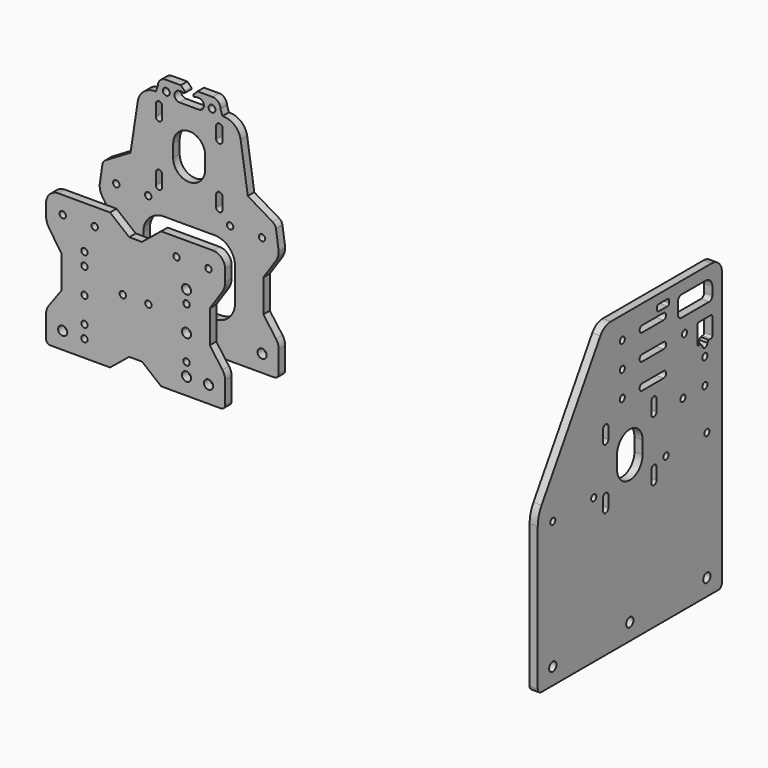
from build123d import *

# Parameters (mm, degrees)
F1_DEPTH  = 6.35
F2_R      = 3.5685
F2_R_2    = 2.5
F3_DEPTH  = 6.351
F5_DEPTH  = 6.351
F6_R      = 2.5
F7_DEPTH  = 6.351
F9_DEPTH  = 6.351
F10_R     = 2.5
F11_DEPTH = 6.351
F13_DEPTH = 6.351
F16_DEPTH = 6.35
F17_R     = 2.5
F18_DEPTH = 96.351
F19_R     = 2.5
F19_R_2   = 3.5685
F20_DEPTH = 96.351
F21_R     = 3.5685
F21_R_2   = 2.5
F22_DEPTH = 96.351
F23_R     = 9.6
F24_R     = 3.36
F25_R     = 14
F26_R     = 11
F29_DEPTH = 6.35
F30_R     = 2.5
F30_R_2   = 3.5685
F31_DEPTH = 44.001
F32_R     = 13.7
F33_R     = 5.5
F35_DEPTH = 44.001
F36_R     = 2.7
F37_DEPTH = 44.001
F39_DEPTH = 44.001


with BuildPart() as f1:
    # F0 (on Right) → F1 (new body)
    with BuildSketch(Plane.YZ):
        with BuildLine():
            ThreePointArc((-18.5517731611, 113.75), (-24.4005348578, 112.2281671401), (-28.7658235978, 108.048664436))
            Line((-28.7658235978, 108.048664436), (-86.2792717431, 14.7836133896))
            ThreePointArc((-86.2792717431, 14.7836133896), (-89.0518377009, 8.4811541103), (-90, 1.6613958147))
            Line((-90, 1.6613958147), (-90, -110.25))
            ThreePointArc((-90, -110.25), (-88.9748737342, -112.7248737342), (-86.5, -113.75))
            Line((-86.5, -113.75), (86.5, -113.75))
            ThreePointArc((86.5, -113.75), (88.9748737342, -112.7248737342), (90, -110.25))
            Line((90, -110.25), (90, 103.75))
            ThreePointArc((90, 103.75), (87.0710678119, 110.8210678119), (80, 113.75))
            Line((80, 113.75), (-18.5517731611, 113.75))
        make_face()
    extrude(amount=F1_DEPTH)

    # F2 (on face) → F3 (cut, through all)
    with BuildSketch(Plane.YZ.offset(6.35)):
        with Locations((-75.3, -100.75)):
            Circle(F2_R)
        with Locations((75.3, -100.75)):
            Circle(F2_R)
        with Locations((0, -100.75)):
            Circle(F2_R)
        with Locations((-75.3, -0.75)):
            Circle(F2_R_2)
        with Locations((-35.3, -0.75)):
            Circle(F2_R_2)
        with Locations((35.3, -0.75)):
            Circle(F2_R_2)
        with Locations((75.3, -0.75)):
            Circle(F2_R_2)
    extrude(amount=-F3_DEPTH, mode=Mode.SUBTRACT)

    # F4 (on face) → F5 (cut, through all)
    with BuildSketch(Plane.YZ.offset(6.35)):
        with BuildLine():
            Line((-12.5, 19.55), (-12.5, 9.55))
            ThreePointArc((-12.5, 9.55), (0, -2.95), (12.5, 9.55))
            Line((12.5, 9.55), (12.5, 19.55))
            ThreePointArc((12.5, 19.55), (0, 32.05), (-12.5, 19.55))
        make_face()
        with BuildLine():
            Line((-21.02, 33.62), (-21.02, 42.62))
            ThreePointArc((-21.02, 42.62), (-23.57, 45.17), (-26.12, 42.62))
            Line((-26.12, 42.62), (-26.12, 33.62))
            ThreePointArc((-26.12, 33.62), (-23.57, 31.07), (-21.02, 33.62))
        make_face()
        with BuildLine():
            ThreePointArc((21.02, 33.62), (23.57, 31.07), (26.12, 33.62))
            Line((26.12, 33.62), (26.12, 42.62))
            ThreePointArc((26.12, 42.62), (23.57, 45.17), (21.02, 42.62))
            Line((21.02, 42.62), (21.02, 33.62))
        make_face()
        with BuildLine():
            Line((26.12, -13.52), (26.12, -4.52))
            ThreePointArc((26.12, -4.52), (23.57, -1.97), (21.02, -4.52))
            Line((21.02, -4.52), (21.02, -13.52))
            ThreePointArc((21.02, -13.52), (23.57, -16.07), (26.12, -13.52))
        make_face()
        with BuildLine():
            ThreePointArc((-21.02, -4.52), (-23.57, -1.97), (-26.12, -4.52))
            Line((-26.12, -4.52), (-26.12, -13.52))
            ThreePointArc((-26.12, -13.52), (-23.57, -16.07), (-21.02, -13.52))
            Line((-21.02, -13.52), (-21.02, -4.52))
        make_face()
    extrude(amount=-F5_DEPTH, mode=Mode.SUBTRACT)

    # F6 (on face) → F7 (cut, through all)
    with BuildSketch(Plane.YZ.offset(6.35)):
        with Locations((-7.35, 96.25)):
            Circle(F6_R)
        with BuildLine():
            ThreePointArc((12, 98.75), (9.5, 96.25), (12, 93.75))
            Line((12, 93.75), (33, 93.75))
            ThreePointArc((33, 93.75), (35.5, 96.25), (33, 98.75))
            Line((33, 98.75), (12, 98.75))
        make_face()
        with Locations((-7.35, 76.25)):
            Circle(F6_R)
        with BuildLine():
            ThreePointArc((12, 78.75), (9.5, 76.25), (12, 73.75))
            Line((12, 73.75), (33, 73.75))
            ThreePointArc((33, 73.75), (35.5, 76.25), (33, 78.75))
            Line((33, 78.75), (12, 78.75))
        make_face()
        with Locations((-7.35, 56.25)):
            Circle(F6_R)
        with BuildLine():
            ThreePointArc((12, 58.75), (9.5, 56.25), (12, 53.75))
            Line((12, 53.75), (33, 53.75))
            ThreePointArc((33, 53.75), (35.5, 56.25), (33, 58.75))
            Line((33, 58.75), (12, 58.75))
        make_face()
        with Locations((53.35, 76.25)):
            Circle(F6_R)
    extrude(amount=-F7_DEPTH, mode=Mode.SUBTRACT)

    # F8 (on face) → F9 (cut, through all)
    with BuildSketch(Plane.YZ.offset(6.35)):
        with BuildLine():
            Line((36.9, 106.75), (28.1, 106.75))
            ThreePointArc((28.1, 106.75), (26.9686291501, 106.2813708499), (26.5, 105.15))
            Line((26.5, 105.15), (26.5, 103.35))
            ThreePointArc((26.5, 103.35), (26.9686291501, 102.2186291501), (28.1, 101.75))
            Line((28.1, 101.75), (36.9, 101.75))
            ThreePointArc((36.9, 101.75), (38.0313708499, 102.2186291501), (38.5, 103.35))
            Line((38.5, 103.35), (38.5, 105.15))
            ThreePointArc((38.5, 105.15), (38.0313708499, 106.2813708499), (36.9, 106.75))
        make_face()
    extrude(amount=-F9_DEPTH, mode=Mode.SUBTRACT)

    # F10 (on face) → F11 (cut, through all)
    with BuildSketch(Plane.YZ.offset(6.35)):
        with Locations((73.3, 52.25)):
            Circle(F10_R)
        with Locations((73.3, 32.25)):
            Circle(F10_R)
        with Locations((51.95, 32.25)):
            Circle(F10_R)
    extrude(amount=-F11_DEPTH, mode=Mode.SUBTRACT)

    # F12 (on face) → F13 (cut, through all)
    with BuildSketch(Plane.YZ.offset(6.35)):
        with BuildLine():
            ThreePointArc((67.55, 78.4), (66.4186291501, 77.9313708499), (65.95, 76.8))
            Line((65.95, 76.8), (65.95, 63.85))
            ThreePointArc((65.95, 63.85), (66.4186291501, 62.7186291501), (67.55, 62.25))
            Line((67.55, 62.25), (69.649009518, 62.25))
            Line((69.649009518, 62.25), (70.8, 60.75))
            ThreePointArc((70.8, 60.75), (73.3, 58.25), (75.8, 60.75))
            Line((75.8, 60.75), (76.950990482, 62.25))
            Line((76.950990482, 62.25), (79.05, 62.25))
            ThreePointArc((79.05, 62.25), (80.1813708499, 62.7186291501), (80.65, 63.85))
            Line((80.65, 63.85), (80.65, 76.8))
            ThreePointArc((80.65, 76.8), (80.1813708499, 77.9313708499), (79.05, 78.4))
            Line((79.05, 78.4), (67.55, 78.4))
        make_face()
        with BuildLine():
            ThreePointArc((77.5, 88.25), (79.7273863607, 89.1726136393), (80.65, 91.4))
            Line((80.65, 91.4), (80.65, 97.6))
            ThreePointArc((80.65, 97.6), (78.7022600949, 102.3022600949), (74, 104.25))
            Line((74, 104.25), (50.3, 104.25))
            ThreePointArc((50.3, 104.25), (48.0726136393, 103.3273863607), (47.15, 101.1))
            Line((47.15, 101.1), (47.15, 91.4))
            ThreePointArc((47.15, 91.4), (48.0726136393, 89.1726136393), (50.3, 88.25))
            Line((50.3, 88.25), (77.5, 88.25))
        make_face()
    extrude(amount=-F13_DEPTH, mode=Mode.SUBTRACT)


with BuildPart() as f1_1:
    # F14: moved
    add(f1.part.moved(Location((375, 0, 0))))


with BuildPart() as f16:
    # F15 (on Front) → F16 (new body)
    with BuildSketch(Plane.XZ):
        Polygon((5, 41.2), (0, 41.2), (-5, 41.2), (-20, 53.35), (-70, 53.35), (-70, 30.5), (-58, 12.75), (-58, -12.75), (-70, -29.25), (-70, -53.35), (-20, -53.35), (-5, -41.2), (0, -41.2), (5, -41.2), (20, -53.35), (70, -53.35), (70, -29.25), (58, -12.75), (58, 12.75), (70, 30.5), (70, 53.35), (20, 53.35), align=None)
    extrude(amount=F16_DEPTH)

    # F17 (on face) → F18 (cut, through all)
    with BuildSketch(Plane.XZ.offset(6.35)):
        with Locations((-10, 0)):
            Circle(F17_R)
        with Locations((10, 0)):
            Circle(F17_R)
    extrude(amount=-F18_DEPTH, mode=Mode.SUBTRACT)

    # F19 (on face) → F20 (cut, through all)
    with BuildSketch(Plane.XZ.offset(6.35)):
        with Locations((32, 39.7)):
            Circle(F19_R)
        with Locations((57, 39.7)):
            Circle(F19_R)
        with Locations((57, -40.1)):
            Circle(F19_R_2)
        with Locations((-57, -40.1)):
            Circle(F19_R_2)
        with Locations((-57, 39.7)):
            Circle(F19_R)
        with Locations((-32, 39.7)):
            Circle(F19_R)
    extrude(amount=-F20_DEPTH, mode=Mode.SUBTRACT)

    # F21 (on face) → F22 (cut, through all)
    with BuildSketch(Plane.XZ.offset(6.35)):
        with Locations((39.8, 19.85)):
            Circle(F21_R)
        with Locations((39.8, -10.15)):
            Circle(F21_R)
        with Locations((39.8, -40.15)):
            Circle(F21_R)
        with Locations((39.8, 9.85)):
            Circle(F21_R_2)
        with Locations((39.8, -30.15)):
            Circle(F21_R_2)
        with Locations((-40, 19.85)):
            Circle(F21_R_2)
        with Locations((-40, 9.85)):
            Circle(F21_R_2)
        with Locations((-40, -10.15)):
            Circle(F21_R_2)
        with Locations((-40, -30.15)):
            Circle(F21_R_2)
        with Locations((-40, -40.15)):
            Circle(F21_R_2)
    extrude(amount=-F22_DEPTH, mode=Mode.SUBTRACT)

    # F23
    f23_edges = [f16.edges().sort_by_distance(p)[0] for p in [
        (-70, -3.175, 53.35),
        (70, -3.175, 53.35),
    ]]
    fillet(f23_edges, radius=F23_R)

    # F24
    f24_edges = [f16.edges().sort_by_distance(p)[0] for p in [
        (70, -3.175, -53.35),
        (-70, -3.175, -53.35),
    ]]
    fillet(f24_edges, radius=F24_R)

    # F25
    f25_edges = [f16.edges().sort_by_distance(p)[0] for p in [
        (70, -3.175, 30.5),
        (-70, -3.175, 30.5),
    ]]
    fillet(f25_edges, radius=F25_R)

    # F26
    f26_edges = [f16.edges().sort_by_distance(p)[0] for p in [
        (70, -3.175, -29.25),
        (-70, -3.175, -29.25),
    ]]
    fillet(f26_edges, radius=F26_R)


with BuildPart() as f29:
    # F28 (on offset) → F29 (new body)
    with BuildSketch(Plane(origin=(0, 46, 0), x_dir=(-1, 0, 0), z_dir=(0, 1, 0))):
        with BuildLine():
            Line((-45.840954545, 64.8102000961), (-67.5, 51.95))
            Line((-67.5, 51.95), (-70, 34.7883678379))
            ThreePointArc((-70, 34.7883678379), (-69.3860890329, 30.688048289), (-67.5981970853, 26.9473331887))
            Line((-67.5981970853, 26.9473331887), (-58, 12.75))
            Line((-58, 12.75), (-58, -12.75))
            Line((-58, -12.75), (-67.8960969273, -26.3571332751))
            ThreePointArc((-67.8960969273, -26.3571332751), (-69.4608093903, -29.4253360587), (-70, -32.8270219495))
            Line((-70, -32.8270219495), (-70, -49.99))
            ThreePointArc((-70, -49.99), (-69.0158787848, -52.3658787848), (-66.64, -53.35))
            Line((-66.64, -53.35), (-20, -53.35))
            Line((-20, -53.35), (20, -53.35))
            Line((20, -53.35), (66.64, -53.35))
            ThreePointArc((66.64, -53.35), (69.0158787848, -52.3658787848), (70, -49.99))
            Line((70, -49.99), (70, -32.8270219495))
            ThreePointArc((70, -32.8270219495), (69.4608093903, -29.4253360587), (67.8960969273, -26.3571332751))
            Line((67.8960969273, -26.3571332751), (58, -12.75))
            Line((58, -12.75), (58, 12.75))
            Line((58, 12.75), (67.5981970853, 26.9473331887))
            ThreePointArc((67.5981970853, 26.9473331887), (69.3860890329, 30.688048289), (70, 34.7883678379))
            Line((70, 34.7883678379), (67.5, 51.95))
            Line((67.5, 51.95), (45.840954545, 64.8102000961))
            Line((45.840954545, 64.8102000961), (38.5, 113.35))
            Line((38.5, 113.35), (26, 113.35))
            Line((26, 113.35), (24.5028116214, 117.85))
            ThreePointArc((24.5028116214, 117.85), (22.6956604613, 122.2128488399), (18.3328116214, 124.02))
            Line((18.3328116214, 124.02), (-18.3328116214, 124.02))
            ThreePointArc((-18.3328116214, 124.02), (-22.6956604613, 122.2128488399), (-24.5028116214, 117.85))
            Line((-24.5028116214, 117.85), (-26, 113.35))
            Line((-26, 113.35), (-38.5, 113.35))
            Line((-38.5, 113.35), (-45.840954545, 64.8102000961))
        make_face()
    extrude(amount=F29_DEPTH)

    # F30 (on face) → F31 (cut, through all)
    with BuildSketch(Plane.XZ.offset(-46)):
        with Locations((-57, 39.7)):
            Circle(F30_R)
        with Locations((-32, 39.7)):
            Circle(F30_R)
        with Locations((32, 39.7)):
            Circle(F30_R)
        with Locations((57, 39.7)):
            Circle(F30_R)
        with Locations((-57, -40.1)):
            Circle(F30_R_2)
        with Locations((57, -40.1)):
            Circle(F30_R_2)
    extrude(amount=-F31_DEPTH, mode=Mode.SUBTRACT)

    # F32
    f32_edges = [f29.edges().sort_by_distance(p)[0] for p in [
        (38.5, 49.175, 113.35),
        (-38.5, 49.175, 113.35),
    ]]
    fillet(f32_edges, radius=F32_R)

    # F33
    f33_edges = [f29.edges().sort_by_distance(p)[0] for p in [
        (67.5, 49.175, 51.95),
        (-67.5, 49.175, 51.95),
    ]]
    fillet(f33_edges, radius=F33_R)

    # F34 (on face) → F35 (cut, through all)
    with BuildSketch(Plane.XZ.offset(-46)):
        with BuildLine():
            Line((19.85, 29.35), (-19.85, 29.35))
            ThreePointArc((-19.85, 29.35), (-31.163708499, 24.663708499), (-35.85, 13.35))
            Line((-35.85, 13.35), (-35.85, -12.35))
            ThreePointArc((-35.85, -12.35), (-31.163708499, -23.663708499), (-19.85, -28.35))
            Line((-19.85, -28.35), (19.85, -28.35))
            ThreePointArc((19.85, -28.35), (31.163708499, -23.663708499), (35.85, -12.35))
            Line((35.85, -12.35), (35.85, 13.35))
            ThreePointArc((35.85, 13.35), (31.163708499, 24.663708499), (19.85, 29.35))
        make_face()
    extrude(amount=-F35_DEPTH, mode=Mode.SUBTRACT)

    # F36 (on face) → F37 (cut, through all)
    with BuildSketch(Plane.XZ.offset(-46)):
        with BuildLine():
            Line((-6.5, 124.02), (-3.5, 121.02))
            ThreePointArc((-3.5, 121.02), (-3.6015980143, 119.5170545837), (-5.0771965897, 119.82))
            Line((-5.0771965897, 119.82), (-7.5, 119.82))
            ThreePointArc((-7.5, 119.82), (-11.5, 115.82), (-7.5, 111.82))
            Line((-7.5, 111.82), (0, 111.82))
            Line((0, 111.82), (7.5, 111.82))
            ThreePointArc((7.5, 111.82), (11.5, 115.82), (7.5, 119.82))
            Line((7.5, 119.82), (5.0771965897, 119.82))
            ThreePointArc((5.0771965897, 119.82), (3.6015980143, 119.5170545837), (3.5, 121.02))
            Line((3.5, 121.02), (6.5, 124.02))
            Line((6.5, 124.02), (0, 124.02))
            Line((0, 124.02), (-6.5, 124.02))
        make_face()
        with Locations((-17.86, 115.82)):
            Circle(F36_R)
        with Locations((17.86, 115.82)):
            Circle(F36_R)
    extrude(amount=-F37_DEPTH, mode=Mode.SUBTRACT)

    # F38 (on face) → F39 (cut, through all)
    with BuildSketch(Plane.XZ.offset(-46)):
        with BuildLine():
            ThreePointArc((12.5, 81.97), (0, 94.47), (-12.5, 81.97))
            Line((-12.5, 81.97), (-12.5, 71.97))
            ThreePointArc((-12.5, 71.97), (0, 59.47), (12.5, 71.97))
            Line((12.5, 71.97), (12.5, 81.97))
        make_face()
        with BuildLine():
            ThreePointArc((-21.07, 57.9), (-23.57, 60.4), (-26.07, 57.9))
            Line((-26.07, 57.9), (-26.07, 48.9))
            ThreePointArc((-26.07, 48.9), (-23.57, 46.4), (-21.07, 48.9))
            Line((-21.07, 48.9), (-21.07, 57.9))
        make_face()
        with BuildLine():
            Line((26.07, 48.9), (26.07, 57.9))
            ThreePointArc((26.07, 57.9), (23.57, 60.4), (21.07, 57.9))
            Line((21.07, 57.9), (21.07, 48.9))
            ThreePointArc((21.07, 48.9), (23.57, 46.4), (26.07, 48.9))
        make_face()
        with BuildLine():
            Line((-26.07, 105.04), (-26.07, 96.04))
            ThreePointArc((-26.07, 96.04), (-23.57, 93.54), (-21.07, 96.04))
            Line((-21.07, 96.04), (-21.07, 105.04))
            ThreePointArc((-21.07, 105.04), (-23.57, 107.54), (-26.07, 105.04))
        make_face()
        with BuildLine():
            Line((26.07, 96.04), (26.07, 105.04))
            ThreePointArc((26.07, 105.04), (23.57, 107.54), (21.07, 105.04))
            Line((21.07, 105.04), (21.07, 96.04))
            ThreePointArc((21.07, 96.04), (23.57, 93.54), (26.07, 96.04))
        make_face()
    extrude(amount=-F39_DEPTH, mode=Mode.SUBTRACT)


solid = Compound([f1_1.part, f16.part, f29.part])
